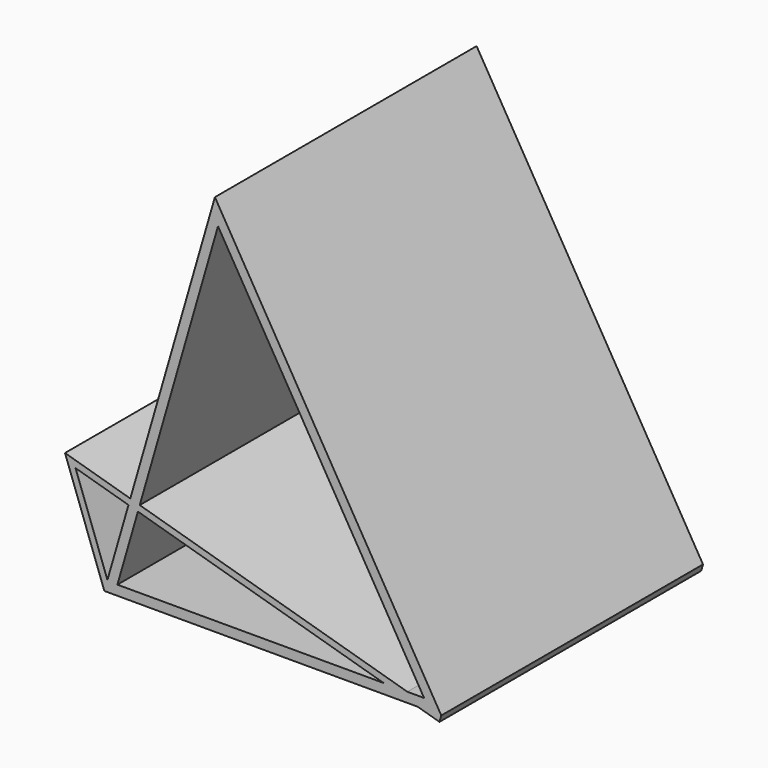
from build123d import *

# Parameters (mm, degrees)
F1_DEPTH = 25.4


with BuildPart() as f1:
    # F0 (on Front) → F1 (new body)
    with BuildSketch(Plane.XZ):
        Polygon((26.1605381966, 0), (24.3300873014, 0), (26.0195542736, -0.4880447536), align=None)
        Polygon((0.2397730946, 0.8300237247), (0, 0), (0.4776612476, 0.1729273854), align=None)
        Polygon((23.5227189628, 0.7620000031), (26.1605381966, 0), (8.5827633739, 29.7109950334), (2.01492174, 6.9750646967), (2.7469886633, 6.7635888721), (8.8252281085, 27.8046608555), (24.824349058, 0.7620000031), align=None)
        Polygon((-3.0554429933, 8.4397662551), (0, 0), (0.2397730946, 0.8300237247), (-2.2382869966, 7.6749388424), (1.873937817, 6.4870199432), (2.01492174, 6.9750646967), align=None)
        Polygon((21.6922680676, 0.7620000031), (24.3300873014, 0), (26.1605381966, 0), (23.5227189628, 0.7620000031), align=None)
        Polygon((2.01492174, 6.9750646967), (1.873937817, 6.4870199432), (2.6060047403, 6.2755441185), (2.7469886633, 6.7635888721), align=None)
        Polygon((2.6060047403, 6.2755441185), (21.6922680676, 0.7620000031), (23.5227189628, 0.7620000031), (2.7469886633, 6.7635888721), align=None)
        Polygon((0.4776612476, 0.1729273854), (0, 0), (24.3300873014, 0), (21.6922680676, 0.7620000031), (1.0132797427, 0.7620000031), (2.6060047403, 6.2755441185), (1.873937817, 6.4870199432), (0.2397730946, 0.8300237247), align=None)
    extrude(amount=F1_DEPTH)


solid = f1.part
